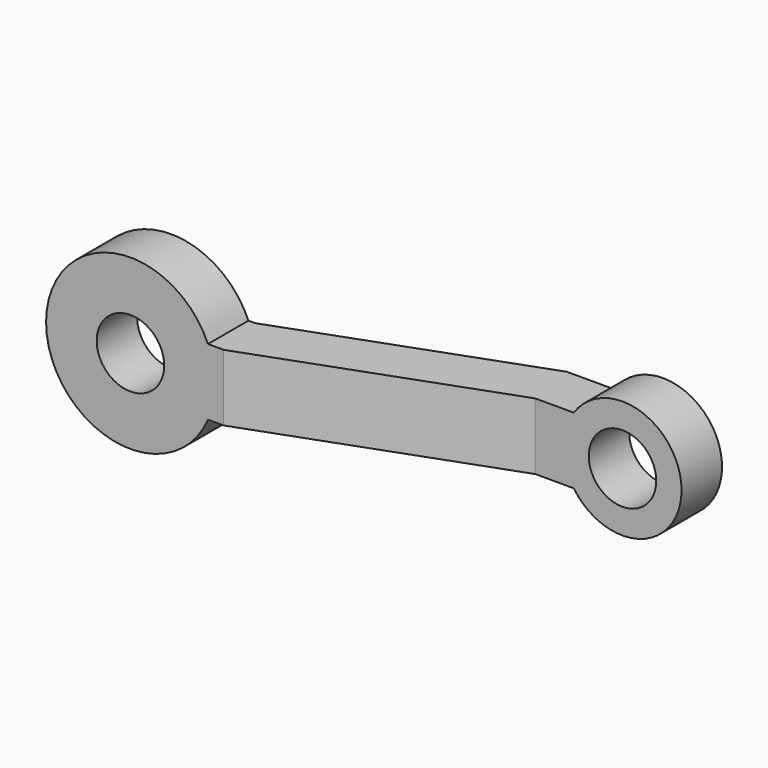
from build123d import *

# Parameters (mm, degrees)
F0_R     = 10
F1_DEPTH = 25
F2_DEPTH = 25
F4_DEPTH = 35


with BuildPart() as f1:
    # F0 (on Front) → F1 (new body)
    with BuildSketch(Plane.XZ):
        with BuildLine():
            ThreePointArc((-36.9599174113, -9.8680967563), (-35.4426720485, -5.0373667286), (-34.9299123266, 0))
            ThreePointArc((-34.9299123266, 0), (-35.4426720485, 5.0373667286), (-36.9599174113, 9.8680967563))
            ThreePointArc((-36.9599174113, 9.8680967563), (-84.9299123266, 0), (-36.9599174113, -9.8680967563))
        make_face()
        with Locations((-59.9299123266, 0)):
            Circle(F0_R, mode=Mode.SUBTRACT)
        with BuildLine():
            ThreePointArc((-36.9599174113, 9.8680967563), (-35.4426720485, 5.0373667286), (-34.9299123266, 0))
            ThreePointArc((-34.9299123266, 0), (-35.4426720485, -5.0373667286), (-36.9599174113, -9.8680967563))
            Line((-36.9599174113, -9.8680967563), (50.6177291666, -9.8680967563))
            ThreePointArc((50.6177291666, -9.8680967563), (47.5700876734, 0), (50.6177291666, 9.8680967563))
            Line((50.6177291666, 9.8680967563), (-36.9599174113, 9.8680967563))
        make_face()
        with BuildLine():
            ThreePointArc((82.5700876734, 0), (70.2340844845, 16.7207397245), (50.6177291666, 9.8680967563))
            ThreePointArc((50.6177291666, 9.8680967563), (47.5700876734, 0), (50.6177291666, -9.8680967563))
            ThreePointArc((50.6177291666, -9.8680967563), (70.2340844845, -16.7207397245), (82.5700876734, 0))
        make_face()
        with Locations((65.0700876734, 0)):
            Circle(F0_R, mode=Mode.SUBTRACT)
        with BuildLine():
            ThreePointArc((-36.9599174113, 9.8680967563), (-35.4426720485, 5.0373667286), (-34.9299123266, 0))
            ThreePointArc((-34.9299123266, 0), (-35.4426720485, -5.0373667286), (-36.9599174113, -9.8680967563))
            Line((-36.9599174113, -9.8680967563), (50.6177291666, -9.8680967563))
            ThreePointArc((50.6177291666, -9.8680967563), (47.5700876734, 0), (50.6177291666, 9.8680967563))
            Line((50.6177291666, 9.8680967563), (-36.9599174113, 9.8680967563))
        make_face()
    extrude(amount=F1_DEPTH)

    # F2 (add): a face of the model
    f2_faces = [f1.faces().sort_by_distance(p)[0] for p in [
        (-11.6027124374, -25, 0),
    ]]
    extrude(f2_faces, amount=F2_DEPTH)

    # F3 (on Top) → F4 (intersect, symmetric)
    with BuildSketch(Plane.XY):
        Polygon((82.5700876734, -17.3896358903), (82.5700876734, -2.3896358903), (36.5700876734, -2.3896358903), (-34.9299123266, -28.4135076404), (-84.9299123266, -28.4135076404), (-84.9299123266, -43.4135076404), (-32.285007616, -43.4135076404), (39.214992384, -17.3896358903), align=None)
    extrude(amount=F4_DEPTH, both=True, mode=Mode.INTERSECT)


solid = f1.part
